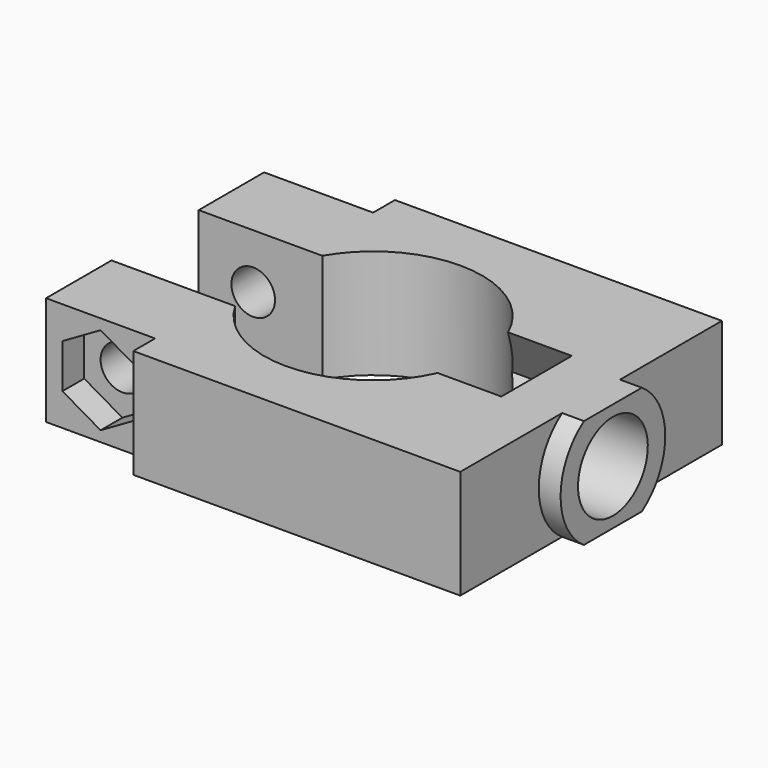
from build123d import *

# Parameters (mm, degrees)
CYLINDER_R              = 10
CYLINDER_DEPTH          = 10
CYLINDER001_R           = 2
CYLINDER001_DEPTH       = 30
CYLINDER001_ROLL_ANGLE  = -90
PAD001_DEPTH            = 10
CYLINDER002_R           = 4
CYLINDER002_DEPTH       = 12
CYLINDER002_PITCH_ANGLE = 90
BOX002_W                = 10
BOX002_H                = 2.5
BOX002_DEPTH            = 10
BOX003_W                = 10
BOX003_H                = 2.5
BOX003_DEPTH            = 10
PAD_DEPTH               = 2.5
BOX004_W                = 10
BOX004_H                = 10
BOX004_DEPTH            = 5
BOX005_W                = 10
BOX005_H                = 10
BOX005_DEPTH            = 5
BOX001_W                = 15
BOX001_H                = 10
BOX001_DEPTH            = 10
CYLINDER003_R           = 6
CYLINDER003_DEPTH       = 2
CYLINDER003_PITCH_ANGLE = 90
BOX_W                   = 40
BOX_H                   = 30
BOX_DEPTH               = 10


with BuildPart() as cylinder:
    # Cylinder → Cylinder (new body)
    with BuildSketch(Plane.XY.offset(-5)):
        Circle(CYLINDER_R)
    extrude(amount=CYLINDER_DEPTH)


with BuildPart() as cylinder001:
    # Cylinder001 → Cylinder001 (new body)
    with BuildSketch(Plane.XY):
        Circle(CYLINDER001_R)
    extrude(amount=CYLINDER001_DEPTH)


with BuildPart() as cylinder001_1:
    # Cylinder001 roll: moved
    add(cylinder001.part.rotate(Axis((0, 0, 0), (1, 0, 0)), CYLINDER001_ROLL_ANGLE))


with BuildPart() as cylinder001_2:
    # Cylinder001 placement: moved
    add(cylinder001_1.part.moved(Location((-15, -15, 0))))


with BuildPart() as other_nut:
    # Sketch001 → Pad001 (new body)
    with BuildSketch(Plane.YZ):
        Polygon((3.464102, 6), (-3.464102, 6), (-6.928203, 0), (-3.464102, -6), (3.464102, -6), (6.928203, 0), align=None)
    extrude(amount=-PAD001_DEPTH)


with BuildPart() as other_nut_1:
    # Body001 placement: moved
    add(other_nut.part.moved(Location((15, 0, 0))))


with BuildPart() as other_screw:
    # Cylinder002 → Cylinder002 (new body)
    with BuildSketch(Plane.XY):
        Circle(CYLINDER002_R)
    extrude(amount=CYLINDER002_DEPTH)


with BuildPart() as other_screw_1:
    # Cylinder002 pitch: moved
    add(other_screw.part.rotate(Axis((0, 0, 0), (0, 1, 0)), CYLINDER002_PITCH_ANGLE))


with BuildPart() as other_screw_2:
    # Cylinder002 placement: moved
    add(other_screw_1.part.moved(Location((10, 0, 0))))


with BuildPart() as cube002:
    # Box002 → Box002 (new body)
    with BuildSketch(Plane(origin=(-20, 12.5, -5), x_dir=(1, 0, 0), z_dir=(0, 0, 1))):
        with Locations((5, 1.25)):
            Rectangle(BOX002_W, BOX002_H)
    extrude(amount=BOX002_DEPTH)


with BuildPart() as cube003:
    # Box003 → Box003 (new body)
    with BuildSketch(Plane(origin=(-20, -15, -5), x_dir=(1, 0, 0), z_dir=(0, 0, 1))):
        with Locations((5, 1.25)):
            Rectangle(BOX003_W, BOX003_H)
    extrude(amount=BOX003_DEPTH)


with BuildPart() as body:
    # Sketch → Pad (new body)
    with BuildSketch(Plane.XZ):
        Polygon((0, -4.041452), (3.5, -2.020726), (3.5, 2.020726), (0, 4.041452), (-3.5, 2.020726), (-3.5, -2.020726), align=None)
    extrude(amount=-PAD_DEPTH)


with BuildPart() as body_1:
    # Body placement: moved
    add(body.part.moved(Location((-15, -12.5, 0))))


with BuildPart() as cube004:
    # Box004 → Box004 (new body)
    with BuildSketch(Plane(origin=(15, -5, -10), x_dir=(1, 0, 0), z_dir=(0, 0, 1))):
        with Locations((5, 5)):
            Rectangle(BOX004_W, BOX004_H)
    extrude(amount=BOX004_DEPTH)


with BuildPart() as cube005:
    # Box005 → Box005 (new body)
    with BuildSketch(Plane(origin=(15, -5, 5), x_dir=(1, 0, 0), z_dir=(0, 0, 1))):
        with Locations((5, 5)):
            Rectangle(BOX005_W, BOX005_H)
    extrude(amount=BOX005_DEPTH)


with BuildPart() as negative_fusion:
    # Box001 → Box001 (new body)
    with BuildSketch(Plane(origin=(-20, -5, -5), x_dir=(1, 0, 0), z_dir=(0, 0, 1))):
        with Locations((7.5, 5)):
            Rectangle(BOX001_W, BOX001_H)
    extrude(amount=BOX001_DEPTH)

    # Fusion: union Cylinder, Cylinder001, Other Nut, Other Screw, Cube002, Cube003, Body, Cube004, Cube005
    add(cylinder.part)
    add(cylinder001_2.part)
    add(other_nut_1.part)
    add(other_screw_2.part)
    add(cube002.part)
    add(cube003.part)
    add(body_1.part)
    add(cube004.part)
    add(cube005.part)


with BuildPart() as cylinder002:
    # Cylinder003 → Cylinder003 (new body)
    with BuildSketch(Plane.XY):
        Circle(CYLINDER003_R)
    extrude(amount=CYLINDER003_DEPTH)


with BuildPart() as cylinder002_1:
    # Cylinder003 pitch: moved
    add(cylinder002.part.rotate(Axis((0, 0, 0), (0, 1, 0)), CYLINDER003_PITCH_ANGLE))


with BuildPart() as cylinder002_2:
    # Cylinder003 placement: moved
    add(cylinder002_1.part.moved(Location((20, 0, 0))))


with BuildPart() as cut:
    # Box → Box (new body)
    with BuildSketch(Plane(origin=(-20, -15, -5), x_dir=(1, 0, 0), z_dir=(0, 0, 1))):
        with Locations((20, 15)):
            Rectangle(BOX_W, BOX_H)
    extrude(amount=BOX_DEPTH)

    # Fusion001: union Cylinder002
    add(cylinder002_2.part)

    # Cut: cut Negative Fusion
    add(negative_fusion.part, mode=Mode.SUBTRACT)


solid = cut.part
